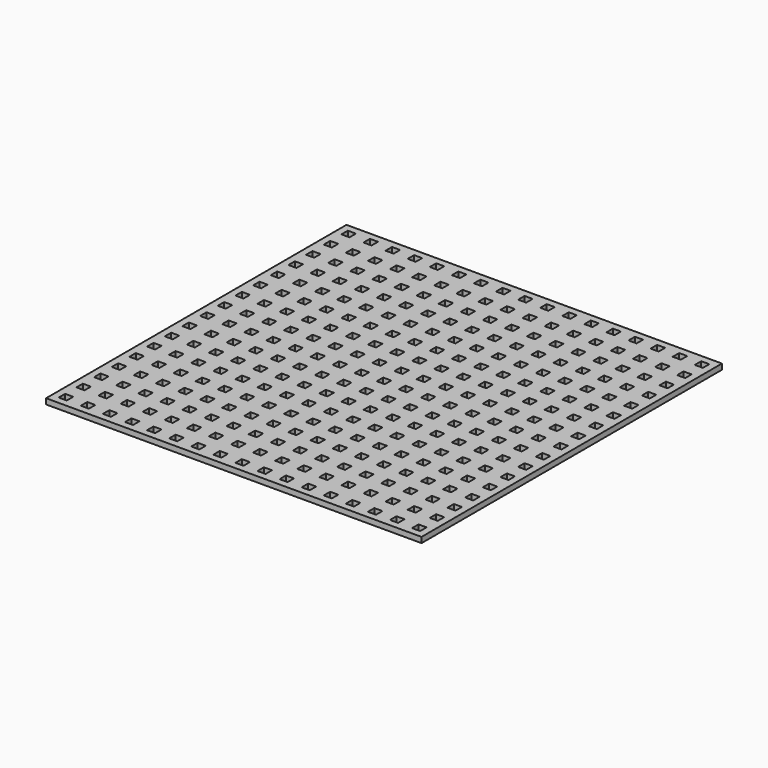
from build123d import *

# Parameters (mm, degrees)
F0_W     = 4.6228
F0_H     = 4.6228
F1_DEPTH = 3.175


with BuildPart() as f1:
    # F0 (on Top) → F1 (new body)
    with BuildSketch(Plane.XY):
        Polygon((107.95, -107.95), (107.95, 107.95), (-107.95, 107.95), (-107.95, -101.6), (-107.95, -107.95), (-101.6, -107.95), align=None)
        with Locations((-101.6, -101.6)):
            Rectangle(F0_W, F0_H, mode=Mode.SUBTRACT)
        with Locations((-88.9, -101.6)):
            Rectangle(F0_W, F0_H, mode=Mode.SUBTRACT)
        with Locations((-101.6, -88.9)):
            Rectangle(F0_W, F0_H, mode=Mode.SUBTRACT)
        with Locations((-88.9, -88.9)):
            Rectangle(F0_W, F0_H, mode=Mode.SUBTRACT)
        with Locations((-76.2, -101.6)):
            Rectangle(F0_W, F0_H, mode=Mode.SUBTRACT)
        with Locations((-63.5, -101.6)):
            Rectangle(F0_W, F0_H, mode=Mode.SUBTRACT)
        with Locations((-76.2, -88.9)):
            Rectangle(F0_W, F0_H, mode=Mode.SUBTRACT)
        with Locations((-63.5, -88.9)):
            Rectangle(F0_W, F0_H, mode=Mode.SUBTRACT)
        with Locations((-101.6, -76.2)):
            Rectangle(F0_W, F0_H, mode=Mode.SUBTRACT)
        with Locations((-88.9, -76.2)):
            Rectangle(F0_W, F0_H, mode=Mode.SUBTRACT)
        with Locations((-101.6, -63.5)):
            Rectangle(F0_W, F0_H, mode=Mode.SUBTRACT)
        with Locations((-88.9, -63.5)):
            Rectangle(F0_W, F0_H, mode=Mode.SUBTRACT)
        with Locations((-76.2, -76.2)):
            Rectangle(F0_W, F0_H, mode=Mode.SUBTRACT)
        with Locations((-63.5, -76.2)):
            Rectangle(F0_W, F0_H, mode=Mode.SUBTRACT)
        with Locations((-76.2, -63.5)):
            Rectangle(F0_W, F0_H, mode=Mode.SUBTRACT)
        with Locations((-63.5, -63.5)):
            Rectangle(F0_W, F0_H, mode=Mode.SUBTRACT)
        with Locations((-50.8, -101.6)):
            Rectangle(F0_W, F0_H, mode=Mode.SUBTRACT)
        with Locations((-38.1, -101.6)):
            Rectangle(F0_W, F0_H, mode=Mode.SUBTRACT)
        with Locations((-50.8, -88.9)):
            Rectangle(F0_W, F0_H, mode=Mode.SUBTRACT)
        with Locations((-38.1, -88.9)):
            Rectangle(F0_W, F0_H, mode=Mode.SUBTRACT)
        with Locations((-25.4, -101.6)):
            Rectangle(F0_W, F0_H, mode=Mode.SUBTRACT)
        with Locations((-12.7, -101.6)):
            Rectangle(F0_W, F0_H, mode=Mode.SUBTRACT)
        with Locations((-25.4, -88.9)):
            Rectangle(F0_W, F0_H, mode=Mode.SUBTRACT)
        with Locations((-12.7, -88.9)):
            Rectangle(F0_W, F0_H, mode=Mode.SUBTRACT)
        with Locations((-50.8, -76.2)):
            Rectangle(F0_W, F0_H, mode=Mode.SUBTRACT)
        with Locations((-38.1, -76.2)):
            Rectangle(F0_W, F0_H, mode=Mode.SUBTRACT)
        with Locations((-50.8, -63.5)):
            Rectangle(F0_W, F0_H, mode=Mode.SUBTRACT)
        with Locations((-38.1, -63.5)):
            Rectangle(F0_W, F0_H, mode=Mode.SUBTRACT)
        with Locations((-25.4, -76.2)):
            Rectangle(F0_W, F0_H, mode=Mode.SUBTRACT)
        with Locations((-12.7, -76.2)):
            Rectangle(F0_W, F0_H, mode=Mode.SUBTRACT)
        with Locations((-25.4, -63.5)):
            Rectangle(F0_W, F0_H, mode=Mode.SUBTRACT)
        with Locations((-12.7, -63.5)):
            Rectangle(F0_W, F0_H, mode=Mode.SUBTRACT)
        with Locations((-101.6, -50.8)):
            Rectangle(F0_W, F0_H, mode=Mode.SUBTRACT)
        with Locations((-88.9, -50.8)):
            Rectangle(F0_W, F0_H, mode=Mode.SUBTRACT)
        with Locations((-101.6, -38.1)):
            Rectangle(F0_W, F0_H, mode=Mode.SUBTRACT)
        with Locations((-88.9, -38.1)):
            Rectangle(F0_W, F0_H, mode=Mode.SUBTRACT)
        with Locations((-76.2, -50.8)):
            Rectangle(F0_W, F0_H, mode=Mode.SUBTRACT)
        with Locations((-63.5, -50.8)):
            Rectangle(F0_W, F0_H, mode=Mode.SUBTRACT)
        with Locations((-76.2, -38.1)):
            Rectangle(F0_W, F0_H, mode=Mode.SUBTRACT)
        with Locations((-63.5, -38.1)):
            Rectangle(F0_W, F0_H, mode=Mode.SUBTRACT)
        with Locations((-101.6, -25.4)):
            Rectangle(F0_W, F0_H, mode=Mode.SUBTRACT)
        with Locations((-88.9, -25.4)):
            Rectangle(F0_W, F0_H, mode=Mode.SUBTRACT)
        with Locations((-101.6, -12.7)):
            Rectangle(F0_W, F0_H, mode=Mode.SUBTRACT)
        with Locations((-88.9, -12.7)):
            Rectangle(F0_W, F0_H, mode=Mode.SUBTRACT)
        with Locations((-76.2, -25.4)):
            Rectangle(F0_W, F0_H, mode=Mode.SUBTRACT)
        with Locations((-63.5, -25.4)):
            Rectangle(F0_W, F0_H, mode=Mode.SUBTRACT)
        with Locations((-76.2, -12.7)):
            Rectangle(F0_W, F0_H, mode=Mode.SUBTRACT)
        with Locations((-63.5, -12.7)):
            Rectangle(F0_W, F0_H, mode=Mode.SUBTRACT)
        with Locations((-50.8, -50.8)):
            Rectangle(F0_W, F0_H, mode=Mode.SUBTRACT)
        with Locations((-38.1, -50.8)):
            Rectangle(F0_W, F0_H, mode=Mode.SUBTRACT)
        with Locations((-50.8, -38.1)):
            Rectangle(F0_W, F0_H, mode=Mode.SUBTRACT)
        with Locations((-38.1, -38.1)):
            Rectangle(F0_W, F0_H, mode=Mode.SUBTRACT)
        with Locations((-25.4, -50.8)):
            Rectangle(F0_W, F0_H, mode=Mode.SUBTRACT)
        with Locations((-12.7, -50.8)):
            Rectangle(F0_W, F0_H, mode=Mode.SUBTRACT)
        with Locations((-25.4, -38.1)):
            Rectangle(F0_W, F0_H, mode=Mode.SUBTRACT)
        with Locations((-12.7, -38.1)):
            Rectangle(F0_W, F0_H, mode=Mode.SUBTRACT)
        with Locations((-50.8, -25.4)):
            Rectangle(F0_W, F0_H, mode=Mode.SUBTRACT)
        with Locations((-38.1, -25.4)):
            Rectangle(F0_W, F0_H, mode=Mode.SUBTRACT)
        with Locations((-50.8, -12.7)):
            Rectangle(F0_W, F0_H, mode=Mode.SUBTRACT)
        with Locations((-38.1, -12.7)):
            Rectangle(F0_W, F0_H, mode=Mode.SUBTRACT)
        with Locations((-25.4, -25.4)):
            Rectangle(F0_W, F0_H, mode=Mode.SUBTRACT)
        with Locations((-12.7, -25.4)):
            Rectangle(F0_W, F0_H, mode=Mode.SUBTRACT)
        with Locations((-25.4, -12.7)):
            Rectangle(F0_W, F0_H, mode=Mode.SUBTRACT)
        with Locations((-12.7, -12.7)):
            Rectangle(F0_W, F0_H, mode=Mode.SUBTRACT)
        with Locations((0, -101.6)):
            Rectangle(F0_W, F0_H, mode=Mode.SUBTRACT)
        with Locations((12.7, -101.6)):
            Rectangle(F0_W, F0_H, mode=Mode.SUBTRACT)
        with Locations((25.4, -101.6)):
            Rectangle(F0_W, F0_H, mode=Mode.SUBTRACT)
        with Locations((0, -88.9)):
            Rectangle(F0_W, F0_H, mode=Mode.SUBTRACT)
        with Locations((12.7, -88.9)):
            Rectangle(F0_W, F0_H, mode=Mode.SUBTRACT)
        with Locations((25.4, -88.9)):
            Rectangle(F0_W, F0_H, mode=Mode.SUBTRACT)
        with Locations((38.1, -101.6)):
            Rectangle(F0_W, F0_H, mode=Mode.SUBTRACT)
        with Locations((50.8, -101.6)):
            Rectangle(F0_W, F0_H, mode=Mode.SUBTRACT)
        with Locations((38.1, -88.9)):
            Rectangle(F0_W, F0_H, mode=Mode.SUBTRACT)
        with Locations((50.8, -88.9)):
            Rectangle(F0_W, F0_H, mode=Mode.SUBTRACT)
        with Locations((0, -76.2)):
            Rectangle(F0_W, F0_H, mode=Mode.SUBTRACT)
        with Locations((12.7, -76.2)):
            Rectangle(F0_W, F0_H, mode=Mode.SUBTRACT)
        with Locations((25.4, -76.2)):
            Rectangle(F0_W, F0_H, mode=Mode.SUBTRACT)
        with Locations((0, -63.5)):
            Rectangle(F0_W, F0_H, mode=Mode.SUBTRACT)
        with Locations((12.7, -63.5)):
            Rectangle(F0_W, F0_H, mode=Mode.SUBTRACT)
        with Locations((25.4, -63.5)):
            Rectangle(F0_W, F0_H, mode=Mode.SUBTRACT)
        with Locations((38.1, -76.2)):
            Rectangle(F0_W, F0_H, mode=Mode.SUBTRACT)
        with Locations((50.8, -76.2)):
            Rectangle(F0_W, F0_H, mode=Mode.SUBTRACT)
        with Locations((38.1, -63.5)):
            Rectangle(F0_W, F0_H, mode=Mode.SUBTRACT)
        with Locations((50.8, -63.5)):
            Rectangle(F0_W, F0_H, mode=Mode.SUBTRACT)
        with Locations((63.5, -101.6)):
            Rectangle(F0_W, F0_H, mode=Mode.SUBTRACT)
        with Locations((76.2, -101.6)):
            Rectangle(F0_W, F0_H, mode=Mode.SUBTRACT)
        with Locations((63.5, -88.9)):
            Rectangle(F0_W, F0_H, mode=Mode.SUBTRACT)
        with Locations((76.2, -88.9)):
            Rectangle(F0_W, F0_H, mode=Mode.SUBTRACT)
        with Locations((88.9, -101.6)):
            Rectangle(F0_W, F0_H, mode=Mode.SUBTRACT)
        with Locations((101.6, -101.6)):
            Rectangle(F0_W, F0_H, mode=Mode.SUBTRACT)
        with Locations((88.9, -88.9)):
            Rectangle(F0_W, F0_H, mode=Mode.SUBTRACT)
        with Locations((101.6, -88.9)):
            Rectangle(F0_W, F0_H, mode=Mode.SUBTRACT)
        with Locations((63.5, -76.2)):
            Rectangle(F0_W, F0_H, mode=Mode.SUBTRACT)
        with Locations((76.2, -76.2)):
            Rectangle(F0_W, F0_H, mode=Mode.SUBTRACT)
        with Locations((63.5, -63.5)):
            Rectangle(F0_W, F0_H, mode=Mode.SUBTRACT)
        with Locations((76.2, -63.5)):
            Rectangle(F0_W, F0_H, mode=Mode.SUBTRACT)
        with Locations((88.9, -76.2)):
            Rectangle(F0_W, F0_H, mode=Mode.SUBTRACT)
        with Locations((101.6, -76.2)):
            Rectangle(F0_W, F0_H, mode=Mode.SUBTRACT)
        with Locations((88.9, -63.5)):
            Rectangle(F0_W, F0_H, mode=Mode.SUBTRACT)
        with Locations((101.6, -63.5)):
            Rectangle(F0_W, F0_H, mode=Mode.SUBTRACT)
        with Locations((0, -50.8)):
            Rectangle(F0_W, F0_H, mode=Mode.SUBTRACT)
        with Locations((12.7, -50.8)):
            Rectangle(F0_W, F0_H, mode=Mode.SUBTRACT)
        with Locations((25.4, -50.8)):
            Rectangle(F0_W, F0_H, mode=Mode.SUBTRACT)
        with Locations((0, -38.1)):
            Rectangle(F0_W, F0_H, mode=Mode.SUBTRACT)
        with Locations((12.7, -38.1)):
            Rectangle(F0_W, F0_H, mode=Mode.SUBTRACT)
        with Locations((25.4, -38.1)):
            Rectangle(F0_W, F0_H, mode=Mode.SUBTRACT)
        with Locations((38.1, -50.8)):
            Rectangle(F0_W, F0_H, mode=Mode.SUBTRACT)
        with Locations((50.8, -50.8)):
            Rectangle(F0_W, F0_H, mode=Mode.SUBTRACT)
        with Locations((38.1, -38.1)):
            Rectangle(F0_W, F0_H, mode=Mode.SUBTRACT)
        with Locations((50.8, -38.1)):
            Rectangle(F0_W, F0_H, mode=Mode.SUBTRACT)
        with Locations((0, -25.4)):
            Rectangle(F0_W, F0_H, mode=Mode.SUBTRACT)
        with Locations((12.7, -25.4)):
            Rectangle(F0_W, F0_H, mode=Mode.SUBTRACT)
        with Locations((25.4, -25.4)):
            Rectangle(F0_W, F0_H, mode=Mode.SUBTRACT)
        with Locations((0, -12.7)):
            Rectangle(F0_W, F0_H, mode=Mode.SUBTRACT)
        with Locations((12.7, -12.7)):
            Rectangle(F0_W, F0_H, mode=Mode.SUBTRACT)
        with Locations((25.4, -12.7)):
            Rectangle(F0_W, F0_H, mode=Mode.SUBTRACT)
        with Locations((38.1, -25.4)):
            Rectangle(F0_W, F0_H, mode=Mode.SUBTRACT)
        with Locations((50.8, -25.4)):
            Rectangle(F0_W, F0_H, mode=Mode.SUBTRACT)
        with Locations((38.1, -12.7)):
            Rectangle(F0_W, F0_H, mode=Mode.SUBTRACT)
        with Locations((50.8, -12.7)):
            Rectangle(F0_W, F0_H, mode=Mode.SUBTRACT)
        with Locations((63.5, -50.8)):
            Rectangle(F0_W, F0_H, mode=Mode.SUBTRACT)
        with Locations((76.2, -50.8)):
            Rectangle(F0_W, F0_H, mode=Mode.SUBTRACT)
        with Locations((63.5, -38.1)):
            Rectangle(F0_W, F0_H, mode=Mode.SUBTRACT)
        with Locations((76.2, -38.1)):
            Rectangle(F0_W, F0_H, mode=Mode.SUBTRACT)
        with Locations((88.9, -50.8)):
            Rectangle(F0_W, F0_H, mode=Mode.SUBTRACT)
        with Locations((101.6, -50.8)):
            Rectangle(F0_W, F0_H, mode=Mode.SUBTRACT)
        with Locations((88.9, -38.1)):
            Rectangle(F0_W, F0_H, mode=Mode.SUBTRACT)
        with Locations((101.6, -38.1)):
            Rectangle(F0_W, F0_H, mode=Mode.SUBTRACT)
        with Locations((63.5, -25.4)):
            Rectangle(F0_W, F0_H, mode=Mode.SUBTRACT)
        with Locations((76.2, -25.4)):
            Rectangle(F0_W, F0_H, mode=Mode.SUBTRACT)
        with Locations((63.5, -12.7)):
            Rectangle(F0_W, F0_H, mode=Mode.SUBTRACT)
        with Locations((76.2, -12.7)):
            Rectangle(F0_W, F0_H, mode=Mode.SUBTRACT)
        with Locations((88.9, -25.4)):
            Rectangle(F0_W, F0_H, mode=Mode.SUBTRACT)
        with Locations((101.6, -25.4)):
            Rectangle(F0_W, F0_H, mode=Mode.SUBTRACT)
        with Locations((88.9, -12.7)):
            Rectangle(F0_W, F0_H, mode=Mode.SUBTRACT)
        with Locations((101.6, -12.7)):
            Rectangle(F0_W, F0_H, mode=Mode.SUBTRACT)
        with Locations((-101.6, 0)):
            Rectangle(F0_W, F0_H, mode=Mode.SUBTRACT)
        with Locations((-101.6, 12.7)):
            Rectangle(F0_W, F0_H, mode=Mode.SUBTRACT)
        with Locations((-88.9, 0)):
            Rectangle(F0_W, F0_H, mode=Mode.SUBTRACT)
        with Locations((-88.9, 12.7)):
            Rectangle(F0_W, F0_H, mode=Mode.SUBTRACT)
        with Locations((-101.6, 25.4)):
            Rectangle(F0_W, F0_H, mode=Mode.SUBTRACT)
        with Locations((-88.9, 25.4)):
            Rectangle(F0_W, F0_H, mode=Mode.SUBTRACT)
        with Locations((-76.2, 0)):
            Rectangle(F0_W, F0_H, mode=Mode.SUBTRACT)
        with Locations((-76.2, 12.7)):
            Rectangle(F0_W, F0_H, mode=Mode.SUBTRACT)
        with Locations((-63.5, 0)):
            Rectangle(F0_W, F0_H, mode=Mode.SUBTRACT)
        with Locations((-63.5, 12.7)):
            Rectangle(F0_W, F0_H, mode=Mode.SUBTRACT)
        with Locations((-76.2, 25.4)):
            Rectangle(F0_W, F0_H, mode=Mode.SUBTRACT)
        with Locations((-63.5, 25.4)):
            Rectangle(F0_W, F0_H, mode=Mode.SUBTRACT)
        with Locations((-101.6, 38.1)):
            Rectangle(F0_W, F0_H, mode=Mode.SUBTRACT)
        with Locations((-88.9, 38.1)):
            Rectangle(F0_W, F0_H, mode=Mode.SUBTRACT)
        with Locations((-101.6, 50.8)):
            Rectangle(F0_W, F0_H, mode=Mode.SUBTRACT)
        with Locations((-88.9, 50.8)):
            Rectangle(F0_W, F0_H, mode=Mode.SUBTRACT)
        with Locations((-76.2, 38.1)):
            Rectangle(F0_W, F0_H, mode=Mode.SUBTRACT)
        with Locations((-63.5, 38.1)):
            Rectangle(F0_W, F0_H, mode=Mode.SUBTRACT)
        with Locations((-76.2, 50.8)):
            Rectangle(F0_W, F0_H, mode=Mode.SUBTRACT)
        with Locations((-63.5, 50.8)):
            Rectangle(F0_W, F0_H, mode=Mode.SUBTRACT)
        with Locations((-50.8, 0)):
            Rectangle(F0_W, F0_H, mode=Mode.SUBTRACT)
        with Locations((-50.8, 12.7)):
            Rectangle(F0_W, F0_H, mode=Mode.SUBTRACT)
        with Locations((-38.1, 0)):
            Rectangle(F0_W, F0_H, mode=Mode.SUBTRACT)
        with Locations((-38.1, 12.7)):
            Rectangle(F0_W, F0_H, mode=Mode.SUBTRACT)
        with Locations((-50.8, 25.4)):
            Rectangle(F0_W, F0_H, mode=Mode.SUBTRACT)
        with Locations((-38.1, 25.4)):
            Rectangle(F0_W, F0_H, mode=Mode.SUBTRACT)
        with Locations((-25.4, 0)):
            Rectangle(F0_W, F0_H, mode=Mode.SUBTRACT)
        with Locations((-25.4, 12.7)):
            Rectangle(F0_W, F0_H, mode=Mode.SUBTRACT)
        with Locations((-12.7, 0)):
            Rectangle(F0_W, F0_H, mode=Mode.SUBTRACT)
        with Locations((-12.7, 12.7)):
            Rectangle(F0_W, F0_H, mode=Mode.SUBTRACT)
        with Locations((-25.4, 25.4)):
            Rectangle(F0_W, F0_H, mode=Mode.SUBTRACT)
        with Locations((-12.7, 25.4)):
            Rectangle(F0_W, F0_H, mode=Mode.SUBTRACT)
        with Locations((-50.8, 38.1)):
            Rectangle(F0_W, F0_H, mode=Mode.SUBTRACT)
        with Locations((-38.1, 38.1)):
            Rectangle(F0_W, F0_H, mode=Mode.SUBTRACT)
        with Locations((-50.8, 50.8)):
            Rectangle(F0_W, F0_H, mode=Mode.SUBTRACT)
        with Locations((-38.1, 50.8)):
            Rectangle(F0_W, F0_H, mode=Mode.SUBTRACT)
        with Locations((-25.4, 38.1)):
            Rectangle(F0_W, F0_H, mode=Mode.SUBTRACT)
        with Locations((-12.7, 38.1)):
            Rectangle(F0_W, F0_H, mode=Mode.SUBTRACT)
        with Locations((-25.4, 50.8)):
            Rectangle(F0_W, F0_H, mode=Mode.SUBTRACT)
        with Locations((-12.7, 50.8)):
            Rectangle(F0_W, F0_H, mode=Mode.SUBTRACT)
        with Locations((-101.6, 63.5)):
            Rectangle(F0_W, F0_H, mode=Mode.SUBTRACT)
        with Locations((-88.9, 63.5)):
            Rectangle(F0_W, F0_H, mode=Mode.SUBTRACT)
        with Locations((-101.6, 76.2)):
            Rectangle(F0_W, F0_H, mode=Mode.SUBTRACT)
        with Locations((-88.9, 76.2)):
            Rectangle(F0_W, F0_H, mode=Mode.SUBTRACT)
        with Locations((-76.2, 63.5)):
            Rectangle(F0_W, F0_H, mode=Mode.SUBTRACT)
        with Locations((-63.5, 63.5)):
            Rectangle(F0_W, F0_H, mode=Mode.SUBTRACT)
        with Locations((-76.2, 76.2)):
            Rectangle(F0_W, F0_H, mode=Mode.SUBTRACT)
        with Locations((-63.5, 76.2)):
            Rectangle(F0_W, F0_H, mode=Mode.SUBTRACT)
        with Locations((-101.6, 88.9)):
            Rectangle(F0_W, F0_H, mode=Mode.SUBTRACT)
        with Locations((-88.9, 88.9)):
            Rectangle(F0_W, F0_H, mode=Mode.SUBTRACT)
        with Locations((-101.6, 101.6)):
            Rectangle(F0_W, F0_H, mode=Mode.SUBTRACT)
        with Locations((-88.9, 101.6)):
            Rectangle(F0_W, F0_H, mode=Mode.SUBTRACT)
        with Locations((-76.2, 88.9)):
            Rectangle(F0_W, F0_H, mode=Mode.SUBTRACT)
        with Locations((-63.5, 88.9)):
            Rectangle(F0_W, F0_H, mode=Mode.SUBTRACT)
        with Locations((-76.2, 101.6)):
            Rectangle(F0_W, F0_H, mode=Mode.SUBTRACT)
        with Locations((-63.5, 101.6)):
            Rectangle(F0_W, F0_H, mode=Mode.SUBTRACT)
        with Locations((-50.8, 63.5)):
            Rectangle(F0_W, F0_H, mode=Mode.SUBTRACT)
        with Locations((-38.1, 63.5)):
            Rectangle(F0_W, F0_H, mode=Mode.SUBTRACT)
        with Locations((-50.8, 76.2)):
            Rectangle(F0_W, F0_H, mode=Mode.SUBTRACT)
        with Locations((-38.1, 76.2)):
            Rectangle(F0_W, F0_H, mode=Mode.SUBTRACT)
        with Locations((-25.4, 63.5)):
            Rectangle(F0_W, F0_H, mode=Mode.SUBTRACT)
        with Locations((-12.7, 63.5)):
            Rectangle(F0_W, F0_H, mode=Mode.SUBTRACT)
        with Locations((-25.4, 76.2)):
            Rectangle(F0_W, F0_H, mode=Mode.SUBTRACT)
        with Locations((-12.7, 76.2)):
            Rectangle(F0_W, F0_H, mode=Mode.SUBTRACT)
        with Locations((-50.8, 88.9)):
            Rectangle(F0_W, F0_H, mode=Mode.SUBTRACT)
        with Locations((-38.1, 88.9)):
            Rectangle(F0_W, F0_H, mode=Mode.SUBTRACT)
        with Locations((-50.8, 101.6)):
            Rectangle(F0_W, F0_H, mode=Mode.SUBTRACT)
        with Locations((-38.1, 101.6)):
            Rectangle(F0_W, F0_H, mode=Mode.SUBTRACT)
        with Locations((-25.4, 88.9)):
            Rectangle(F0_W, F0_H, mode=Mode.SUBTRACT)
        with Locations((-12.7, 88.9)):
            Rectangle(F0_W, F0_H, mode=Mode.SUBTRACT)
        with Locations((-25.4, 101.6)):
            Rectangle(F0_W, F0_H, mode=Mode.SUBTRACT)
        with Locations((-12.7, 101.6)):
            Rectangle(F0_W, F0_H, mode=Mode.SUBTRACT)
        Rectangle(F0_W, F0_H, mode=Mode.SUBTRACT)
        with Locations((12.7, 0)):
            Rectangle(F0_W, F0_H, mode=Mode.SUBTRACT)
        with Locations((0, 12.7)):
            Rectangle(F0_W, F0_H, mode=Mode.SUBTRACT)
        with Locations((12.7, 12.7)):
            Rectangle(F0_W, F0_H, mode=Mode.SUBTRACT)
        with Locations((25.4, 0)):
            Rectangle(F0_W, F0_H, mode=Mode.SUBTRACT)
        with Locations((25.4, 12.7)):
            Rectangle(F0_W, F0_H, mode=Mode.SUBTRACT)
        with Locations((0, 25.4)):
            Rectangle(F0_W, F0_H, mode=Mode.SUBTRACT)
        with Locations((12.7, 25.4)):
            Rectangle(F0_W, F0_H, mode=Mode.SUBTRACT)
        with Locations((25.4, 25.4)):
            Rectangle(F0_W, F0_H, mode=Mode.SUBTRACT)
        with Locations((38.1, 0)):
            Rectangle(F0_W, F0_H, mode=Mode.SUBTRACT)
        with Locations((38.1, 12.7)):
            Rectangle(F0_W, F0_H, mode=Mode.SUBTRACT)
        with Locations((50.8, 0)):
            Rectangle(F0_W, F0_H, mode=Mode.SUBTRACT)
        with Locations((50.8, 12.7)):
            Rectangle(F0_W, F0_H, mode=Mode.SUBTRACT)
        with Locations((38.1, 25.4)):
            Rectangle(F0_W, F0_H, mode=Mode.SUBTRACT)
        with Locations((50.8, 25.4)):
            Rectangle(F0_W, F0_H, mode=Mode.SUBTRACT)
        with Locations((0, 38.1)):
            Rectangle(F0_W, F0_H, mode=Mode.SUBTRACT)
        with Locations((12.7, 38.1)):
            Rectangle(F0_W, F0_H, mode=Mode.SUBTRACT)
        with Locations((25.4, 38.1)):
            Rectangle(F0_W, F0_H, mode=Mode.SUBTRACT)
        with Locations((0, 50.8)):
            Rectangle(F0_W, F0_H, mode=Mode.SUBTRACT)
        with Locations((12.7, 50.8)):
            Rectangle(F0_W, F0_H, mode=Mode.SUBTRACT)
        with Locations((25.4, 50.8)):
            Rectangle(F0_W, F0_H, mode=Mode.SUBTRACT)
        with Locations((38.1, 38.1)):
            Rectangle(F0_W, F0_H, mode=Mode.SUBTRACT)
        with Locations((50.8, 38.1)):
            Rectangle(F0_W, F0_H, mode=Mode.SUBTRACT)
        with Locations((38.1, 50.8)):
            Rectangle(F0_W, F0_H, mode=Mode.SUBTRACT)
        with Locations((50.8, 50.8)):
            Rectangle(F0_W, F0_H, mode=Mode.SUBTRACT)
        with Locations((63.5, 0)):
            Rectangle(F0_W, F0_H, mode=Mode.SUBTRACT)
        with Locations((63.5, 12.7)):
            Rectangle(F0_W, F0_H, mode=Mode.SUBTRACT)
        with Locations((76.2, 0)):
            Rectangle(F0_W, F0_H, mode=Mode.SUBTRACT)
        with Locations((76.2, 12.7)):
            Rectangle(F0_W, F0_H, mode=Mode.SUBTRACT)
        with Locations((63.5, 25.4)):
            Rectangle(F0_W, F0_H, mode=Mode.SUBTRACT)
        with Locations((76.2, 25.4)):
            Rectangle(F0_W, F0_H, mode=Mode.SUBTRACT)
        with Locations((88.9, 0)):
            Rectangle(F0_W, F0_H, mode=Mode.SUBTRACT)
        with Locations((88.9, 12.7)):
            Rectangle(F0_W, F0_H, mode=Mode.SUBTRACT)
        with Locations((101.6, 0)):
            Rectangle(F0_W, F0_H, mode=Mode.SUBTRACT)
        with Locations((101.6, 12.7)):
            Rectangle(F0_W, F0_H, mode=Mode.SUBTRACT)
        with Locations((88.9, 25.4)):
            Rectangle(F0_W, F0_H, mode=Mode.SUBTRACT)
        with Locations((101.6, 25.4)):
            Rectangle(F0_W, F0_H, mode=Mode.SUBTRACT)
        with Locations((63.5, 38.1)):
            Rectangle(F0_W, F0_H, mode=Mode.SUBTRACT)
        with Locations((76.2, 38.1)):
            Rectangle(F0_W, F0_H, mode=Mode.SUBTRACT)
        with Locations((63.5, 50.8)):
            Rectangle(F0_W, F0_H, mode=Mode.SUBTRACT)
        with Locations((76.2, 50.8)):
            Rectangle(F0_W, F0_H, mode=Mode.SUBTRACT)
        with Locations((88.9, 38.1)):
            Rectangle(F0_W, F0_H, mode=Mode.SUBTRACT)
        with Locations((101.6, 38.1)):
            Rectangle(F0_W, F0_H, mode=Mode.SUBTRACT)
        with Locations((88.9, 50.8)):
            Rectangle(F0_W, F0_H, mode=Mode.SUBTRACT)
        with Locations((101.6, 50.8)):
            Rectangle(F0_W, F0_H, mode=Mode.SUBTRACT)
        with Locations((0, 63.5)):
            Rectangle(F0_W, F0_H, mode=Mode.SUBTRACT)
        with Locations((12.7, 63.5)):
            Rectangle(F0_W, F0_H, mode=Mode.SUBTRACT)
        with Locations((25.4, 63.5)):
            Rectangle(F0_W, F0_H, mode=Mode.SUBTRACT)
        with Locations((0, 76.2)):
            Rectangle(F0_W, F0_H, mode=Mode.SUBTRACT)
        with Locations((12.7, 76.2)):
            Rectangle(F0_W, F0_H, mode=Mode.SUBTRACT)
        with Locations((25.4, 76.2)):
            Rectangle(F0_W, F0_H, mode=Mode.SUBTRACT)
        with Locations((38.1, 63.5)):
            Rectangle(F0_W, F0_H, mode=Mode.SUBTRACT)
        with Locations((50.8, 63.5)):
            Rectangle(F0_W, F0_H, mode=Mode.SUBTRACT)
        with Locations((38.1, 76.2)):
            Rectangle(F0_W, F0_H, mode=Mode.SUBTRACT)
        with Locations((50.8, 76.2)):
            Rectangle(F0_W, F0_H, mode=Mode.SUBTRACT)
        with Locations((0, 88.9)):
            Rectangle(F0_W, F0_H, mode=Mode.SUBTRACT)
        with Locations((12.7, 88.9)):
            Rectangle(F0_W, F0_H, mode=Mode.SUBTRACT)
        with Locations((25.4, 88.9)):
            Rectangle(F0_W, F0_H, mode=Mode.SUBTRACT)
        with Locations((0, 101.6)):
            Rectangle(F0_W, F0_H, mode=Mode.SUBTRACT)
        with Locations((12.7, 101.6)):
            Rectangle(F0_W, F0_H, mode=Mode.SUBTRACT)
        with Locations((25.4, 101.6)):
            Rectangle(F0_W, F0_H, mode=Mode.SUBTRACT)
        with Locations((38.1, 88.9)):
            Rectangle(F0_W, F0_H, mode=Mode.SUBTRACT)
        with Locations((50.8, 88.9)):
            Rectangle(F0_W, F0_H, mode=Mode.SUBTRACT)
        with Locations((38.1, 101.6)):
            Rectangle(F0_W, F0_H, mode=Mode.SUBTRACT)
        with Locations((50.8, 101.6)):
            Rectangle(F0_W, F0_H, mode=Mode.SUBTRACT)
        with Locations((63.5, 63.5)):
            Rectangle(F0_W, F0_H, mode=Mode.SUBTRACT)
        with Locations((76.2, 63.5)):
            Rectangle(F0_W, F0_H, mode=Mode.SUBTRACT)
        with Locations((63.5, 76.2)):
            Rectangle(F0_W, F0_H, mode=Mode.SUBTRACT)
        with Locations((76.2, 76.2)):
            Rectangle(F0_W, F0_H, mode=Mode.SUBTRACT)
        with Locations((88.9, 63.5)):
            Rectangle(F0_W, F0_H, mode=Mode.SUBTRACT)
        with Locations((101.6, 63.5)):
            Rectangle(F0_W, F0_H, mode=Mode.SUBTRACT)
        with Locations((88.9, 76.2)):
            Rectangle(F0_W, F0_H, mode=Mode.SUBTRACT)
        with Locations((101.6, 76.2)):
            Rectangle(F0_W, F0_H, mode=Mode.SUBTRACT)
        with Locations((63.5, 88.9)):
            Rectangle(F0_W, F0_H, mode=Mode.SUBTRACT)
        with Locations((76.2, 88.9)):
            Rectangle(F0_W, F0_H, mode=Mode.SUBTRACT)
        with Locations((63.5, 101.6)):
            Rectangle(F0_W, F0_H, mode=Mode.SUBTRACT)
        with Locations((76.2, 101.6)):
            Rectangle(F0_W, F0_H, mode=Mode.SUBTRACT)
        with Locations((88.9, 88.9)):
            Rectangle(F0_W, F0_H, mode=Mode.SUBTRACT)
        with Locations((101.6, 88.9)):
            Rectangle(F0_W, F0_H, mode=Mode.SUBTRACT)
        with Locations((88.9, 101.6)):
            Rectangle(F0_W, F0_H, mode=Mode.SUBTRACT)
        with Locations((101.6, 101.6)):
            Rectangle(F0_W, F0_H, mode=Mode.SUBTRACT)
    extrude(amount=F1_DEPTH)


solid = f1.part
